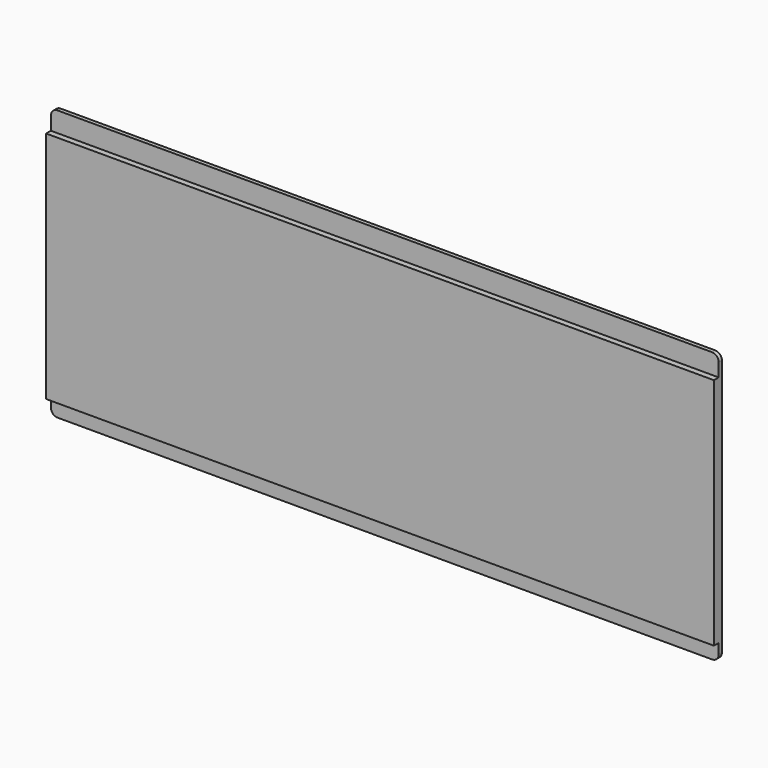
from build123d import *

# Parameters (mm, degrees)
F0_W     = 200
F0_H     = 81
F1_DEPTH = 3
F2_W     = 200
F2_H     = 6
F2_H_2   = 5
F3_DEPTH = 1.8
F4_R     = 2


with BuildPart() as f1:
    # F0 (on Front) → F1 (new body)
    with BuildSketch(Plane.XZ):
        Rectangle(F0_W, F0_H)
    extrude(amount=F1_DEPTH)

    # F2 (on face) → F3 (cut)
    with BuildSketch(Plane.XZ.offset(3)):
        with Locations((0, 37.5)):
            Rectangle(F2_W, F2_H)
        with Locations((0, -38)):
            Rectangle(F2_W, F2_H_2)
    extrude(amount=-F3_DEPTH, mode=Mode.SUBTRACT)

    # F4
    f4_edges = [f1.edges().sort_by_distance(p)[0] for p in [
        (-100, -0.6, -40.5),
        (-100, -0.6, 40.5),
        (100, -0.6, -40.5),
        (100, -0.6, 40.5),
    ]]
    fillet(f4_edges, radius=F4_R)


solid = f1.part
